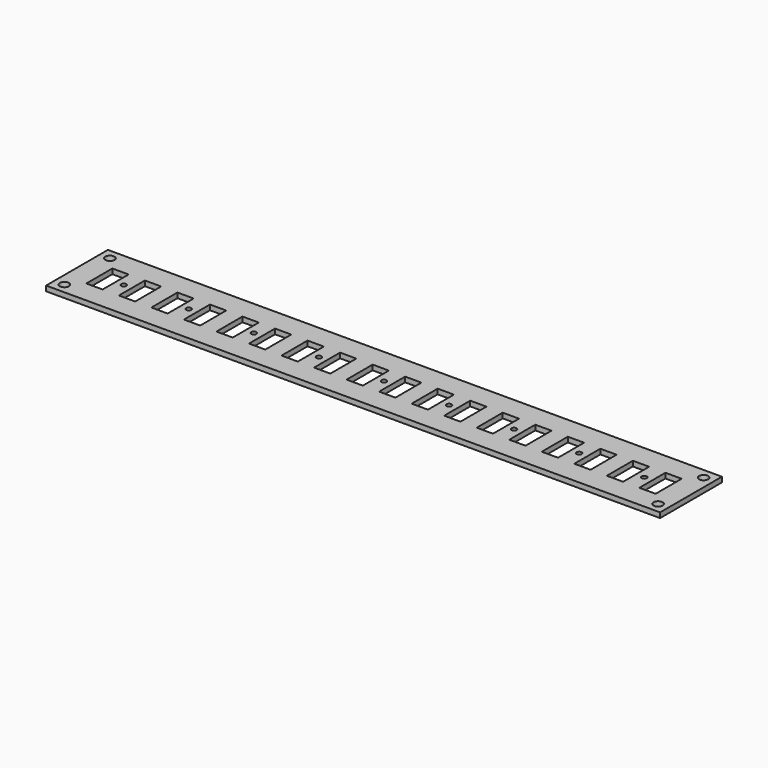
from build123d import *

# Parameters (mm, degrees)
F0_W     = 302
F0_H     = 38
F0_W_2   = 8
F0_H_2   = 16
F1_DEPTH = 2.5
F2_D     = 2.5
F3_D     = 4.5
F4_DEPTH = 2.501


with BuildPart() as f1:
    # F0 (on Top) → F1 (new body)
    with BuildSketch(Plane.XY):
        Rectangle(F0_W, F0_H)
        with Locations((-136, 0)):
            Rectangle(F0_W_2, F0_H_2, mode=Mode.SUBTRACT)
        with Locations((-120, 0)):
            Rectangle(F0_W_2, F0_H_2, mode=Mode.SUBTRACT)
        with Locations((-104, 0)):
            Rectangle(F0_W_2, F0_H_2, mode=Mode.SUBTRACT)
        with Locations((-88, 0)):
            Rectangle(F0_W_2, F0_H_2, mode=Mode.SUBTRACT)
        with Locations((-72, 0)):
            Rectangle(F0_W_2, F0_H_2, mode=Mode.SUBTRACT)
        with Locations((-56, 0)):
            Rectangle(F0_W_2, F0_H_2, mode=Mode.SUBTRACT)
        with Locations((-40, 0)):
            Rectangle(F0_W_2, F0_H_2, mode=Mode.SUBTRACT)
        with Locations((-24, 0)):
            Rectangle(F0_W_2, F0_H_2, mode=Mode.SUBTRACT)
        with Locations((-8, 0)):
            Rectangle(F0_W_2, F0_H_2, mode=Mode.SUBTRACT)
        with Locations((8, 0)):
            Rectangle(F0_W_2, F0_H_2, mode=Mode.SUBTRACT)
        with Locations((24, 0)):
            Rectangle(F0_W_2, F0_H_2, mode=Mode.SUBTRACT)
        with Locations((40, 0)):
            Rectangle(F0_W_2, F0_H_2, mode=Mode.SUBTRACT)
        with Locations((56, 0)):
            Rectangle(F0_W_2, F0_H_2, mode=Mode.SUBTRACT)
        with Locations((72, 0)):
            Rectangle(F0_W_2, F0_H_2, mode=Mode.SUBTRACT)
        with Locations((88, 0)):
            Rectangle(F0_W_2, F0_H_2, mode=Mode.SUBTRACT)
        with Locations((104, 0)):
            Rectangle(F0_W_2, F0_H_2, mode=Mode.SUBTRACT)
        with Locations((120, 0)):
            Rectangle(F0_W_2, F0_H_2, mode=Mode.SUBTRACT)
        with Locations((136, 0)):
            Rectangle(F0_W_2, F0_H_2, mode=Mode.SUBTRACT)
    extrude(amount=-F1_DEPTH)

    # F2 (through all)
    with Locations(Plane.XY):
        with Locations((-128, 0), (-96, 0), (-64, 0), (-32, 0), (0, 0), (32, 0), (64, 0), (96, 0), (128, 0)):
            Hole(F2_D / 2)

    # F3 (through all)
    with Locations(Plane.XY):
        with Locations((-146, 14), (-146, -14), (146, 14), (146, -14)):
            Hole(F3_D / 2)

    # F0 (on Top) → F4 (cut, through all)
    with BuildSketch(Plane.XY):
        with Locations((-136, 0)):
            Rectangle(F0_W_2, F0_H_2)
    extrude(amount=-F4_DEPTH, mode=Mode.SUBTRACT)


solid = f1.part
